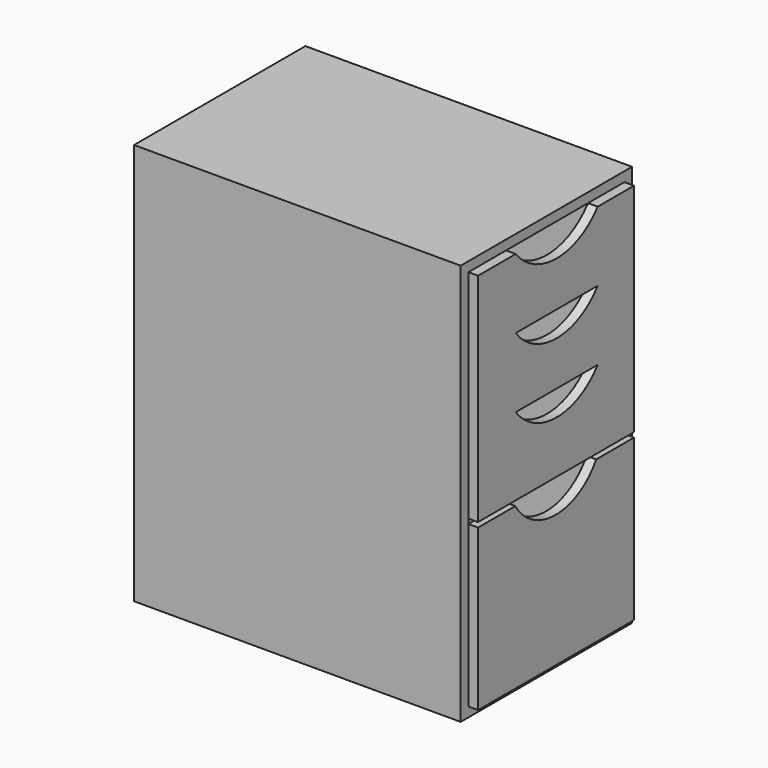
from build123d import *

# Parameters (mm, degrees)
F0_W     = 400
F0_H     = 750
F0_W_2   = 364
F0_H_2   = 714
F1_DEPTH = 600
F2_W     = 400
F2_H     = 750
F3_DEPTH = 10
F6_DEPTH = 18
F7_DEPTH = 18
F8_DEPTH = 18
F9_DEPTH = 18


with BuildPart() as f1:
    # F0 (on Right) → F1 (new body)
    with BuildSketch(Plane.YZ):
        Rectangle(F0_W, F0_H)
        Rectangle(F0_W_2, F0_H_2, mode=Mode.SUBTRACT)
    extrude(amount=-F1_DEPTH)

    # F2 (on face) → F3 (join)
    with BuildSketch(Plane(origin=(-600, 0, 0), x_dir=(0, -1, 0), z_dir=(-1, 0, 0))):
        Rectangle(F2_W, F2_H)
    extrude(amount=F3_DEPTH)



with BuildPart() as f6:
    # F5 (on face) → F6 (new body)
    with BuildSketch(Plane.YZ):
        with BuildLine():
            Line((-94.039477, 97), (-182, 97))
            Line((-182, 97), (-182, -48))
            Line((-182, -48), (182, -48))
            Line((182, -48), (182, 97))
            Line((182, 97), (97.223356, 97))
            ThreePointArc((97.223356, 97), (1.591939, 49.488841), (-94.039477, 97))
        make_face()
    extrude(amount=F6_DEPTH)


with BuildPart() as f1_1:
    add(f1.part)

    add(f6.part)  # F7 merges F6
    # F5 (on face) → F7 (join)
    with BuildSketch(Plane.YZ):
        with BuildLine():
            Line((-94.039477, 227), (-182, 227))
            Line((-182, 227), (-182, 97))
            Line((-182, 97), (-94.039477, 97))
            Line((-94.039477, 97), (97.223356, 97))
            Line((97.223356, 97), (182, 97))
            Line((182, 97), (182, 227))
            Line((182, 227), (97.223356, 227))
            ThreePointArc((97.223356, 227), (1.591939, 179.488841), (-94.039477, 227))
        make_face()
    extrude(amount=F7_DEPTH)

    # F5 (on face) → F8 (join)
    with BuildSketch(Plane.YZ):
        with BuildLine():
            Line((-94.039477, 357), (-182, 357))
            Line((-182, 357), (-182, 227))
            Line((-182, 227), (-94.039477, 227))
            Line((-94.039477, 227), (97.223356, 227))
            Line((97.223356, 227), (182, 227))
            Line((182, 227), (182, 357))
            Line((182, 357), (97.223356, 357))
            ThreePointArc((97.223356, 357), (1.591939, 310.802282), (-94.039477, 357))
        make_face()
    extrude(amount=F8_DEPTH)


with BuildPart() as f9:
    # F4 (on face) → F9 (new body)
    with BuildSketch(Plane.YZ):
        with BuildLine():
            Line((-182, -57), (-182, -357))
            Line((-182, -357), (182, -357))
            Line((182, -357), (182, -57))
            Line((182, -57), (93.888007, -57))
            ThreePointArc((93.888007, -57), (-0.616327, -109.82179), (-95.120661, -57))
            Line((-95.120661, -57), (-182, -57))
        make_face()
    extrude(amount=F9_DEPTH)


solid = Compound([f1_1.part, f9.part])
